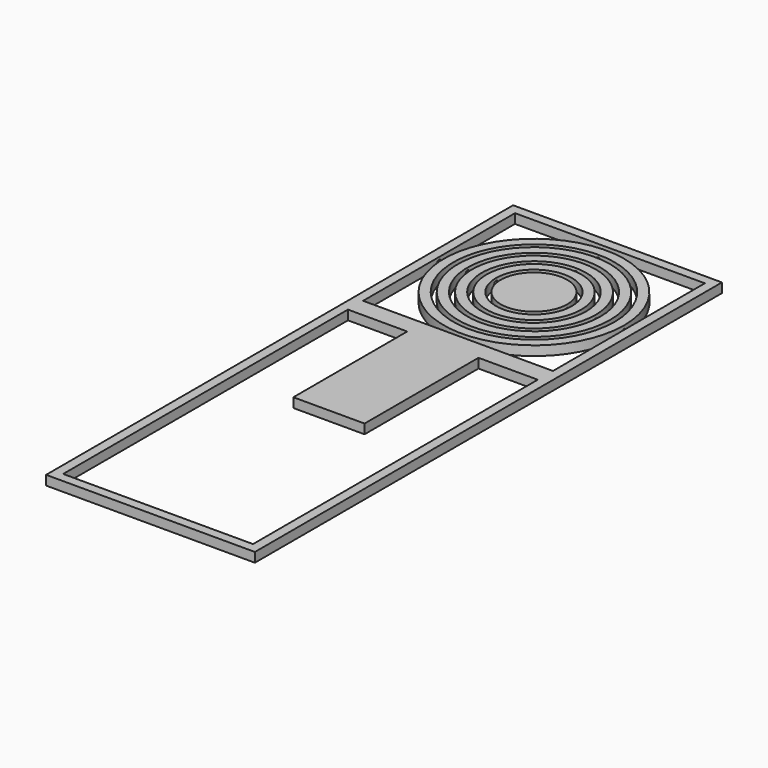
from build123d import *

# Parameters (mm, degrees)
F0_W           = 44
F0_H           = 79
F0_W_2         = 15
F0_H_2         = 30
F0_H_3         = 44
F0_W_3         = 40
F0_H_4         = 40
F1_DEPTH       = 2
F0_R           = 19
F0_R_2         = 17
F0_R_3         = 16
F0_R_4         = 14
F0_R_5         = 13
F0_R_6         = 11
F0_R_7         = 10
F0_R_8         = 8
F0_R_9         = 7
F3_R           = 0.5
F4_DEPTH       = 1
F4_DEPTH_BACK  = 0.2
F6_R           = 0.5
F7_DEPTH       = 1
F7_DEPTH_BACK  = 0.2
F9_R           = 0.5
F10_DEPTH      = 1
F10_DEPTH_BACK = 0.2
F12_R          = 0.5
F13_DEPTH      = 1
F13_DEPTH_BACK = 0.2
F15_R          = 0.5
F16_DEPTH      = 1
F16_DEPTH_BACK = 0.2
F18_R          = 0.5
F19_DEPTH      = 1
F19_DEPTH_BACK = 0.2
F20_R          = 0.5
F21_DEPTH      = 1
F22_R          = 0.5
F23_DEPTH      = 1
F27_R          = 0.5
F28_DEPTH      = 1
F28_DEPTH_BACK = 0.2
F30_R          = 0.5
F31_DEPTH      = 1
F31_DEPTH_BACK = 0.2
F25_R          = 0.35
F32_DEPTH      = 1.7
F32_DEPTH_BACK = 0.2
F34_R          = 0.35
F35_DEPTH      = 1.7
F35_DEPTH_BACK = 0.2
F37_R          = 0.35
F38_DEPTH      = 1.7
F38_DEPTH_BACK = 0.2
F40_R          = 0.35
F41_DEPTH      = 1.7
F41_DEPTH_BACK = 0.2
F43_R          = 0.35
F44_DEPTH      = 1.7
F44_DEPTH_BACK = 0.2
F46_R          = 0.35
F47_DEPTH      = 1.7
F47_DEPTH_BACK = 0.2
F49_R          = 0.35
F50_DEPTH      = 1.7
F50_DEPTH_BACK = 0.2
F52_R          = 0.35
F53_DEPTH      = 1.7
F53_DEPTH_BACK = 0.2
F55_R          = 0.35
F56_DEPTH      = 1.7
F56_DEPTH_BACK = 0.2
F58_R          = 0.35
F59_DEPTH      = 1.7
F59_DEPTH_BACK = 0.2


with BuildPart() as f1:
    # F0 (on Top) → F1 (new body)
    with BuildSketch(Plane.XY):
        with Locations((20, -37.5)):
            Rectangle(F0_W, F0_H)
        Polygon((0, -75), (0, 0), (12.5, 0), (27.5, 0), (40, 0), (40, -75), align=None, mode=Mode.SUBTRACT)
        with Locations((20, -15)):
            Rectangle(F0_W_2, F0_H_2)
        with Locations((20, 24)):
            Rectangle(F0_W, F0_H_3)
        with Locations((20, 24)):
            Rectangle(F0_W_3, F0_H_4, mode=Mode.SUBTRACT)
    extrude(amount=F1_DEPTH)

    # F20 (on face) → F21 (cut)
    with BuildSketch(Plane.YZ):
        with Locations((24, 1)):
            Circle(F20_R)
    extrude(amount=-F21_DEPTH, mode=Mode.SUBTRACT)

    # F22 (on face) → F23 (cut)
    with BuildSketch(Plane(origin=(40, 0, 0), x_dir=(0, -1, 0), z_dir=(-1, 0, 0))):
        with Locations((-24, 1)):
            Circle(F22_R)
    extrude(amount=-F23_DEPTH, mode=Mode.SUBTRACT)


with BuildPart() as f1b:
    # F0 (on Top) → F1, piece 2 (new body)
    with BuildSketch(Plane.XY):
        with Locations((20, 24)):
            Circle(F0_R)
        with Locations((20, 24)):
            Circle(F0_R_2, mode=Mode.SUBTRACT)
    extrude(amount=F1_DEPTH)

    # F9 (on offset) → F10 (cut, two sides)
    with BuildSketch(Plane.XZ.offset(-7)) as f10_sk:
        with Locations((20, 1)):
            Circle(F9_R)
    extrude(amount=F10_DEPTH, mode=Mode.SUBTRACT)
    extrude(f10_sk.sketch, amount=-F10_DEPTH_BACK, mode=Mode.SUBTRACT)

    # F12 (on offset) → F13 (cut, two sides)
    with BuildSketch(Plane.XZ.offset(-41)) as f13_sk:
        with Locations((20, 1)):
            Circle(F12_R)
    extrude(amount=-F13_DEPTH, mode=Mode.SUBTRACT)
    extrude(f13_sk.sketch, amount=F13_DEPTH_BACK, mode=Mode.SUBTRACT)

    # F25 (on offset) → F32 (join, two sides)
    with BuildSketch(Plane.YZ.offset(1)) as f32_sk:
        with Locations((24, 1)):
            Circle(F25_R)
    extrude(amount=-F32_DEPTH)
    extrude(f32_sk.sketch, amount=F32_DEPTH_BACK)

    # F34 (on offset) → F35 (join, two sides)
    with BuildSketch(Plane.YZ.offset(39)) as f35_sk:
        with Locations((24, 1)):
            Circle(F34_R)
    extrude(amount=F35_DEPTH)
    extrude(f35_sk.sketch, amount=-F35_DEPTH_BACK)


with BuildPart() as f1c:
    # F0 (on Top) → F1, piece 3 (new body)
    with BuildSketch(Plane.XY):
        with Locations((20, 24)):
            Circle(F0_R_3)
        with Locations((20, 24)):
            Circle(F0_R_4, mode=Mode.SUBTRACT)
    extrude(amount=F1_DEPTH)

    # F15 (on offset) → F16 (cut, two sides)
    with BuildSketch(Plane.YZ.offset(6)) as f16_sk:
        with Locations((24, 1)):
            Circle(F15_R)
    extrude(amount=-F16_DEPTH, mode=Mode.SUBTRACT)
    extrude(f16_sk.sketch, amount=F16_DEPTH_BACK, mode=Mode.SUBTRACT)

    # F18 (on offset) → F19 (cut, two sides)
    with BuildSketch(Plane.YZ.offset(34)) as f19_sk:
        with Locations((24, 1)):
            Circle(F18_R)
    extrude(amount=F19_DEPTH, mode=Mode.SUBTRACT)
    extrude(f19_sk.sketch, amount=-F19_DEPTH_BACK, mode=Mode.SUBTRACT)

    # F49 (on offset) → F50 (join, two sides)
    with BuildSketch(Plane.XZ.offset(-8)) as f50_sk:
        with Locations((20, 1)):
            Circle(F49_R)
    extrude(amount=F50_DEPTH)
    extrude(f50_sk.sketch, amount=-F50_DEPTH_BACK)

    # F52 (on offset) → F53 (join, two sides)
    with BuildSketch(Plane.XZ.offset(-40)) as f53_sk:
        with Locations((20, 1)):
            Circle(F52_R)
    extrude(amount=-F53_DEPTH)
    extrude(f53_sk.sketch, amount=F53_DEPTH_BACK)


with BuildPart() as f1d:
    # F0 (on Top) → F1, piece 4 (new body)
    with BuildSketch(Plane.XY):
        with Locations((20, 24)):
            Circle(F0_R_5)
        with Locations((20, 24)):
            Circle(F0_R_6, mode=Mode.SUBTRACT)
    extrude(amount=F1_DEPTH)

    # F3 (on offset) → F4 (cut, two sides)
    with BuildSketch(Plane.XZ.offset(-13)) as f4_sk:
        with Locations((20, 0.9924969122)):
            Circle(F3_R)
    extrude(amount=F4_DEPTH, mode=Mode.SUBTRACT)
    extrude(f4_sk.sketch, amount=-F4_DEPTH_BACK, mode=Mode.SUBTRACT)

    # F6 (on offset) → F7 (cut, two sides)
    with BuildSketch(Plane.XZ.offset(-35)) as f7_sk:
        with Locations((20, 0.9400701965)):
            Circle(F6_R)
    extrude(amount=-F7_DEPTH, mode=Mode.SUBTRACT)
    extrude(f7_sk.sketch, amount=F7_DEPTH_BACK, mode=Mode.SUBTRACT)

    # F37 (on offset) → F38 (join, two sides)
    with BuildSketch(Plane.YZ.offset(7)) as f38_sk:
        with Locations((24, 1)):
            Circle(F37_R)
    extrude(amount=-F38_DEPTH)
    extrude(f38_sk.sketch, amount=F38_DEPTH_BACK)

    # F40 (on offset) → F41 (join, two sides)
    with BuildSketch(Plane.YZ.offset(33)) as f41_sk:
        with Locations((24, 1)):
            Circle(F40_R)
    extrude(amount=F41_DEPTH)
    extrude(f41_sk.sketch, amount=-F41_DEPTH_BACK)


with BuildPart() as f1e:
    # F0 (on Top) → F1, piece 5 (new body)
    with BuildSketch(Plane.XY):
        with Locations((20, 24)):
            Circle(F0_R_7)
        with Locations((20, 24)):
            Circle(F0_R_8, mode=Mode.SUBTRACT)
    extrude(amount=F1_DEPTH)

    # F27 (on offset) → F28 (cut, two sides)
    with BuildSketch(Plane.YZ.offset(12)) as f28_sk:
        with Locations((24, 1)):
            Circle(F27_R)
    extrude(amount=-F28_DEPTH, mode=Mode.SUBTRACT)
    extrude(f28_sk.sketch, amount=F28_DEPTH_BACK, mode=Mode.SUBTRACT)

    # F30 (on offset) → F31 (cut, two sides)
    with BuildSketch(Plane.YZ.offset(28)) as f31_sk:
        with Locations((24, 1)):
            Circle(F30_R)
    extrude(amount=F31_DEPTH, mode=Mode.SUBTRACT)
    extrude(f31_sk.sketch, amount=-F31_DEPTH_BACK, mode=Mode.SUBTRACT)

    # F55 (on offset) → F56 (join, two sides)
    with BuildSketch(Plane.XZ.offset(-14)) as f56_sk:
        with Locations((20, 1)):
            Circle(F55_R)
    extrude(amount=F56_DEPTH)
    extrude(f56_sk.sketch, amount=-F56_DEPTH_BACK)

    # F58 (on offset) → F59 (join, two sides)
    with BuildSketch(Plane.XZ.offset(-34)) as f59_sk:
        with Locations((20, 1)):
            Circle(F58_R)
    extrude(amount=-F59_DEPTH)
    extrude(f59_sk.sketch, amount=F59_DEPTH_BACK)


with BuildPart() as f1f:
    # F0 (on Top) → F1, piece 6 (new body)
    with BuildSketch(Plane.XY):
        with Locations((20, 24)):
            Circle(F0_R_9)
    extrude(amount=F1_DEPTH)

    # F43 (on offset) → F44 (join, two sides)
    with BuildSketch(Plane.YZ.offset(13)) as f44_sk:
        with Locations((24, 1)):
            Circle(F43_R)
    extrude(amount=-F44_DEPTH)
    extrude(f44_sk.sketch, amount=F44_DEPTH_BACK)

    # F46 (on offset) → F47 (join, two sides)
    with BuildSketch(Plane.YZ.offset(27)) as f47_sk:
        with Locations((24, 1)):
            Circle(F46_R)
    extrude(amount=F47_DEPTH)
    extrude(f47_sk.sketch, amount=-F47_DEPTH_BACK)


solid = Compound([f1.part, f1b.part, f1c.part, f1d.part, f1e.part, f1f.part])
